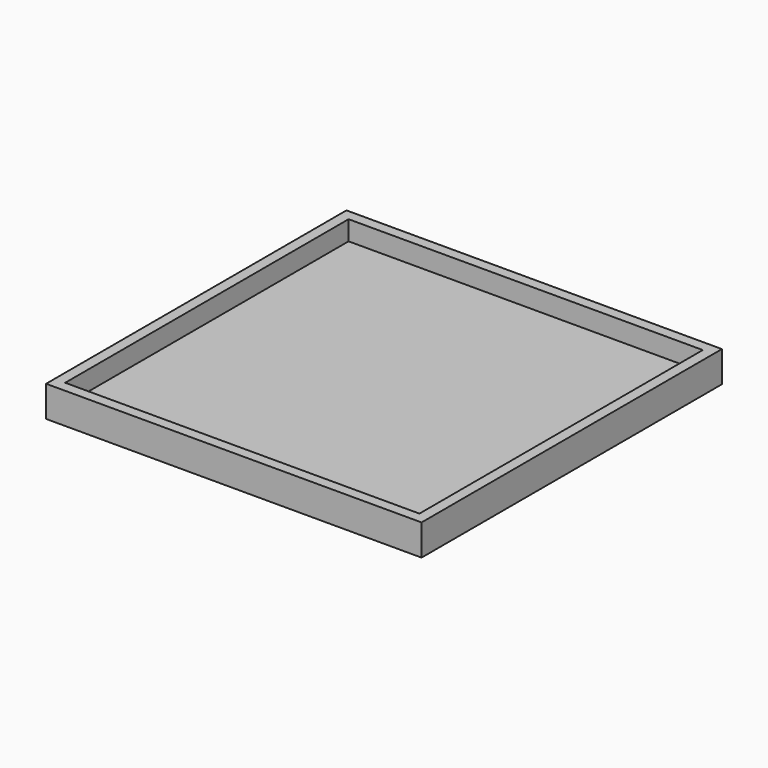
from build123d import *

# Parameters (mm, degrees)
F1_W     = 107.696
F1_H     = 107.696
F1_W_2   = 101.6
F1_H_2   = 101.6
F2_DEPTH = 3.81
F0_W     = 101.6
F0_H     = 101.6
F3_DEPTH = 3.302
F4_DEPTH = 5.08


with BuildPart() as f2:
    # F1 (on face) → F2 (new body)
    with BuildSketch(Plane.XY):
        Rectangle(F1_W, F1_H)
        Rectangle(F1_W_2, F1_H_2, mode=Mode.SUBTRACT)
    extrude(amount=F2_DEPTH)

    # F0 (on Top) → F3 (join)
    with BuildSketch(Plane.XY):
        Rectangle(F0_W, F0_H)
    extrude(amount=F3_DEPTH)

    # F4 (add): a face of the model
    f4_faces = [f2.faces().sort_by_distance(p)[0] for p in [
        (-52.3249485619, 0, 3.81),
    ]]
    extrude(f4_faces, amount=F4_DEPTH)


solid = f2.part
